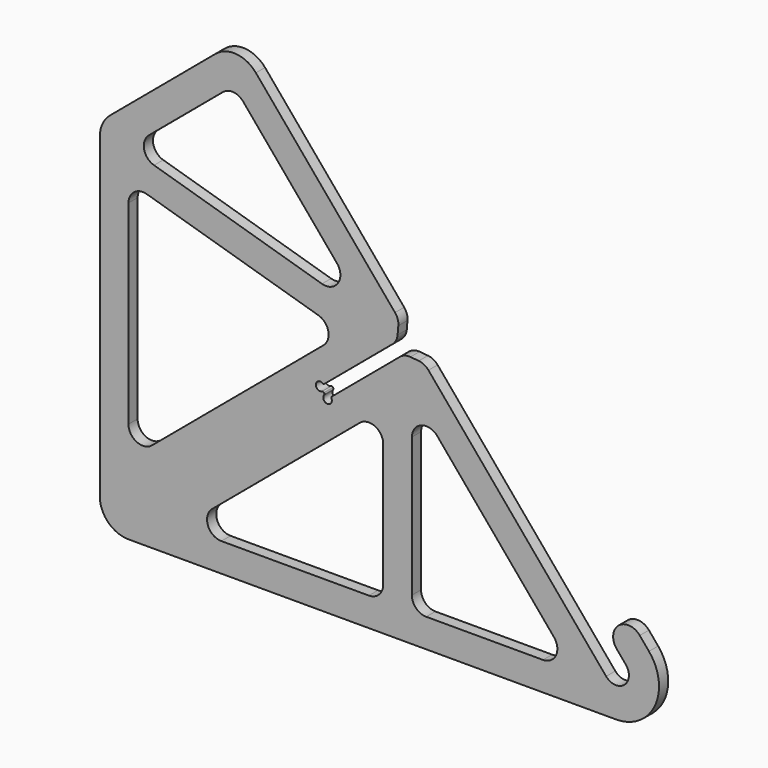
from build123d import *

# Parameters (mm, degrees)
F1_DEPTH = 2
F2_SIZE  = 5
F3_R     = 5
F4_R     = 1.5
F5_DEPTH = 4.001
F6_R     = 0.5
F7_R     = 0.5
F9_DEPTH = 4.001


with BuildPart() as f1:
    # F0 (on Front) → F1 (new body, symmetric)
    with BuildSketch(Plane.XZ):
        with BuildLine():
            ThreePointArc((3.447199994, 2.8925442436), (2.8925442436, -3.447199994), (-3.447199994, -2.8925442436))
            Line((-3.447199994, -2.8925442436), (-69.9395102904, 76.349905432))
            Line((-69.9395102904, 76.349905432), (-100.5812880152, 50.6384010446))
            Line((-100.5812880152, 50.6384010446), (-103.1524384539, 53.7025788171))
            Line((-103.1524384539, 53.7025788171), (-72.5106607292, 79.4140832045))
            Line((-72.5106607292, 79.4140832045), (-125.5768458345, 142.655899949))
            ThreePointArc((-125.5768458345, 142.655899949), (-132.3657328382, 146.1899708331), (-139.6651663625, 143.8884682833))
            Line((-139.6651663625, 143.8884682833), (-176.4278760969, 113.0408921042))
            ThreePointArc((-176.4278760969, 113.0408921042), (-179.0630778704, 109.6066302904), (-180, 105.380447673))
            Line((-180, 105.380447673), (-180, -5))
            ThreePointArc((-180, -5), (-177.0710678119, -12.0710678119), (-170, -15))
            Line((-170, -15), (0, -15))
            ThreePointArc((0, -15), (13.5946168055, -6.3392739261), (11.4906666468, 9.6418141453))
            Line((11.4906666468, 9.6418141453), (8.2767285984, 13.4720363609))
            ThreePointArc((8.2767285984, 13.4720363609), (0.8803603211, 14.1191347364), (0.2332619456, 6.7227664592))
            Line((0.2332619456, 6.7227664592), (3.447199994, 2.8925442436))
        make_face()
    extrude(amount=F1_DEPTH, both=True)

    # F2
    f2_edges = [f1.edges().sort_by_distance(p)[0] for p in [
        (-72.510661, 0, 79.414083),
        (-69.93951, 0, 76.349905),
    ]]
    chamfer(f2_edges, length=F2_SIZE)

    # F3
    f3_edges = [f1.edges().sort_by_distance(p)[0] for p in [
        (-75.724599, 0, 83.244305),
        (-76.340883, 0, 76.200145),
        (-73.769733, 0, 73.135967),
        (-66.725572, 0, 72.519683),
    ]]
    fillet(f3_edges, radius=F3_R)

    # F4 (on face) → F5 (cut, through all)
    with BuildSketch(Plane.XZ.offset(2)):
        with Locations((-103.1524384539, 53.7025788171)):
            Circle(F4_R)
        with Locations((-100.5812880152, 50.6384010446)):
            Circle(F4_R)
    extrude(amount=-F5_DEPTH, mode=Mode.SUBTRACT)

    # F6
    f6_edges = [f1.edges().sort_by_distance(p)[0] for p in [
        (-102.003372, 0, 54.66676),
        (-99.432221, 0, 51.602582),
    ]]
    fillet(f6_edges, radius=F6_R)

    # F7
    f7_edges = [f1.edges().sort_by_distance(p)[0] for p in [
        (-102.188257, 0, 52.553512),
        (-101.545469, 0, 51.787468),
    ]]
    fillet(f7_edges, radius=F7_R)

    # F8 (on face) → F9 (cut, through all)
    with BuildSketch(Plane(origin=(0, 2, 0), x_dir=(-1, 0, 0), z_dir=(0, 1, 0))):
        with BuildLine():
            Line((130.0233522172, 132.3978016366), (97.2839774935, 93.3805341903))
            ThreePointArc((97.2839774935, 93.3805341903), (96.9332114879, 87.4244550998), (102.535824002, 85.3729561501))
            Line((102.535824002, 85.3729561501), (161.082054837, 102.7357001516))
            ThreePointArc((161.082054837, 102.7357001516), (164.5558221931, 106.5119215459), (162.8743685925, 111.3595623589))
            Line((162.8743685925, 111.3595623589), (137.0675124813, 133.0140858037))
            ThreePointArc((137.0675124813, 133.0140858037), (133.4177957191, 134.1648370786), (130.0233522172, 132.3978016366))
        make_face()
        with BuildLine():
            ThreePointArc((103.7888820535, 75.3140818256), (100.3151146973, 71.5378604313), (101.9965682979, 66.6902196183))
            Line((101.9965682979, 66.6902196183), (161.7860619516, 16.5208775452))
            ThreePointArc((161.7860619516, 16.5208775452), (167.1130913087, 15.8195608256), (170, 20.3510997608))
            Line((170, 20.3510997608), (170, 88.2518936709))
            ThreePointArc((170, 88.2518936709), (167.9909763068, 92.2586455639), (163.5783757071, 93.0455336626))
            Line((163.5783757071, 93.0455336626), (103.7888820535, 75.3140818256))
        make_face()
        with BuildLine():
            Line((81.1720786248, 43.1480539897), (81.1720786248, 0))
            ThreePointArc((81.1720786248, 0), (82.6365447188, -3.5355339059), (86.1720786248, -5))
            Line((86.1720786248, -5), (137.5939269804, -5))
            ThreePointArc((137.5939269804, -5), (142.2923900843, -1.7101007166), (140.8078650288, 3.8302222156))
            Line((140.8078650288, 3.8302222156), (89.3860166732, 46.9782762053))
            ThreePointArc((89.3860166732, 46.9782762053), (84.0589873161, 47.6795929249), (81.1720786248, 43.1480539897))
        make_face()
        with BuildLine():
            Line((62.3418564092, 51.7381358551), (21.6252199264, 3.2139380484))
            ThreePointArc((21.6252199264, 3.2139380484), (20.9239032068, -2.1130913087), (25.455442142, -5))
            Line((25.455442142, -5), (66.1720786248, -5))
            ThreePointArc((66.1720786248, -5), (69.7076125307, -3.5355339059), (71.1720786248, 0))
            Line((71.1720786248, 0), (71.1720786248, 48.5241978067))
            ThreePointArc((71.1720786248, 48.5241978067), (67.8821793414, 53.2226609106), (62.3418564092, 51.7381358551))
        make_face()
    extrude(amount=-F9_DEPTH, mode=Mode.SUBTRACT)


solid = f1.part
